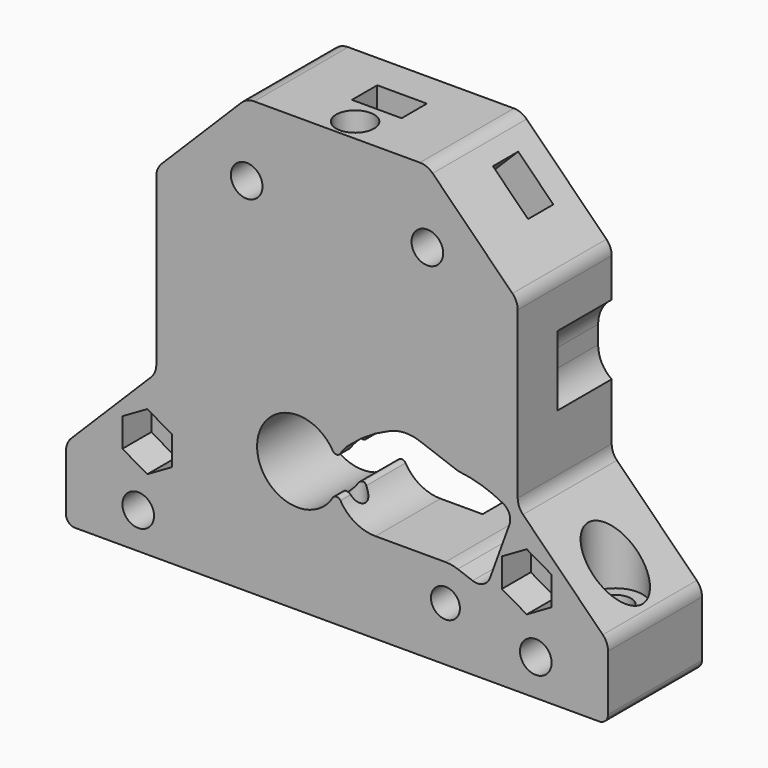
from build123d import *

# Parameters (mm, degrees)
PAD003_START         = 3
PAD003_DEPTH         = 13
SKETCH020_R          = 3.5
POCKET_DEPTH         = 6
CHAMFER_SIZE         = 1.49
POCKET010_DEPTH      = 4.001
POCKET010_DEPTH_BACK = 9.001
FILLET002_R          = 0.5
SKETCH022_R          = 5
POCKET011_DEPTH      = 7
POCKET012_DEPTH      = 5.2
POCKET016_DEPTH      = 3.5
SKETCH029_R          = 1.75
POCKET017_DEPTH      = 3.701
SKETCH030_R          = 1.75
POCKET018_DEPTH      = 2
SKETCH035_R          = 1.75
POCKET023_DEPTH      = 0.001
POCKET023_DEPTH_BACK = 16.001
POCKET024_DEPTH      = 5.001
POCKET026_DEPTH      = 3.5
SKETCH040_W          = 1.75
SKETCH040_H          = 6
SKETCH040_H_2        = 6.2
POCKET027_DEPTH      = 4.001
SKETCH041_R          = 1.75
POCKET028_DEPTH      = 8.701


with BuildPart() as part:
    # Sketch019 → Pad003 (new body)
    with BuildSketch(Plane.XZ.offset(PAD003_START)):
        with BuildLine():
            Line((-30, 1), (-30, 7.171573))
            ThreePointArc((-29.414214, 8.585786), (-29.847759, 7.93694), (-30, 7.171573))
            Line((-29.414214, 8.585786), (-20.585786, 17.414214))
            ThreePointArc((-20.585786, 17.414214), (-20.152241, 18.06306), (-20, 18.828427))
            Line((-20, 18.828427), (-20, 37.171573))
            ThreePointArc((-19.414214, 38.585786), (-19.847759, 37.93694), (-20, 37.171573))
            Line((-19.414214, 38.585786), (-10.585786, 47.414214))
            ThreePointArc((-9.171573, 48), (-9.93694, 47.847759), (-10.585786, 47.414214))
            Line((-9.171573, 48), (9.171573, 48))
            ThreePointArc((10.585786, 47.414214), (9.93694, 47.847759), (9.171573, 48))
            Line((10.585786, 47.414214), (19.414214, 38.585786))
            ThreePointArc((20, 37.171573), (19.847759, 37.93694), (19.414214, 38.585786))
            Line((20, 37.171573), (20, 18.828427))
            ThreePointArc((20, 18.828427), (20.152241, 18.06306), (20.585786, 17.414214))
            Line((20.585786, 17.414214), (29.414214, 8.585786))
            ThreePointArc((30, 7.171573), (29.847759, 7.93694), (29.414214, 8.585786))
            Line((30, 7.171573), (30, 1))
            ThreePointArc((29, 0), (29.707107, 0.292893), (30, 1))
            Line((29, 0), (-29, 0))
            ThreePointArc((-30, 1), (-29.707107, 0.292893), (-29, 0))
        make_face()
    extrude(amount=PAD003_DEPTH)

    # Sketch020 → Pocket (cut)
    with BuildSketch(Plane.XZ.offset(3)):
        with Locations((-22, 29)):
            Circle(SKETCH020_R)
        with BuildLine():
            ThreePointArc((25.5, 30), (22, 33.5), (18.5, 30))
            Line((18.5, 30), (18.5, 28))
            ThreePointArc((18.5, 28), (22, 24.5), (25.5, 28))
            Line((25.5, 30), (25.5, 28))
        make_face()
    extrude(amount=POCKET_DEPTH, mode=Mode.SUBTRACT)

    # Chamfer
    chamfer_edges = [part.edges().sort_by_distance(p)[0] for p in [
        (-20, -9, 29),
        (20, -9, 29),
    ]]
    chamfer(chamfer_edges, length=CHAMFER_SIZE)

    # Sketch018 → Groove002 (revolve, cut)
    with BuildSketch(Plane.XZ.offset(13.5)):
        Polygon((0, 48), (2.1, 48), (2.1, 25.645448), (1.15, 24), (1.15, 8), (2.1, 8), (2.1, 0), (0, 0), align=None)
    revolve(axis=Axis((0, -13.5, 0), (0, 0, 1)), mode=Mode.SUBTRACT)

    # Sketch007 → Pocket010 (cut, two sides)
    with BuildSketch(Plane.XZ.offset(7)) as pocket010_sk:
        with BuildLine():
            ThreePointArc((5.912827, 20.799773), (3.435351, 19.517904), (1.218108, 17.825301))
            ThreePointArc((1.218108, 17.825301), (0.053939, 12.874247), (4.25, 10))
            Line((4.25, 10), (12, 10))
            ThreePointArc((13.368081, 9.75877), (12.694593, 9.939231), (12, 10))
            Line((13.368081, 9.75877), (15.012543, 9.160235))
            ThreePointArc((15.012543, 9.160235), (16.1595, 9.210312), (16.935112, 10.056744))
            Line((19.079822, 15.949288), (16.935112, 10.056744))
            ThreePointArc((19.079822, 15.949288), (19.072784, 16.994288), (18.38502, 17.781088))
            ThreePointArc((18.38502, 17.781088), (15.964773, 18.80012), (13.392261, 19.32757))
            Line((13.392261, 19.32757), (9.163624, 20.866668))
            ThreePointArc((9.163624, 20.866668), (7.531972, 21.137091), (5.912827, 20.799773))
        make_face()
    extrude(amount=-POCKET010_DEPTH, mode=Mode.SUBTRACT)
    extrude(pocket010_sk.sketch, amount=POCKET010_DEPTH_BACK, mode=Mode.SUBTRACT)

    # Sketch017 → Groove003 (revolve, cut)
    with BuildSketch(Plane(origin=(12, 0, 6), x_dir=(1, 0, 0), z_dir=(0, 0, 1))):
        Polygon((0, 0), (3, 0), (3, -10), (1.6, -10), (1.6, -16), (0, -16), align=None)
    revolve(axis=Axis((12, 0, 6), (0, 1, 0)), mode=Mode.SUBTRACT)

    # Sketch021 → Groove004 (revolve, cut)
    with BuildSketch(Plane(origin=(-4.35, 0, 14.5), x_dir=(1, 0, 0), z_dir=(0, 0, 1))):
        Polygon((0, -3), (14, -3), (14, -7), (4.5, -7), (4.5, -16), (0, -16), align=None)
    revolve(axis=Axis((-4.35, 0, 14.5), (0, 1, 0)), mode=Mode.SUBTRACT)

    # Fillet002
    fillet002_edges = [part.edges().sort_by_distance(p)[0] for p in [
        (-0.05, -15.324456, 13.17335),
        (-0.05, -9.675544, 13.17335),
        (-0.05, -15.324456, 15.82665),
        (-0.05, -9.675544, 15.82665),
    ]]
    fillet(fillet002_edges, radius=FILLET002_R)

    # Sketch022 → Pocket011 (cut)
    with BuildSketch(Plane.XZ):
        with Locations((0, 29)):
            Circle(SKETCH022_R)
    extrude(amount=POCKET011_DEPTH, mode=Mode.SUBTRACT)

    # Sketch023 → Pocket012 (cut)
    with BuildSketch(Plane.XZ):
        with BuildLine():
            Line((-4.2, 46.2), (-4.2, 39.8))
            ThreePointArc((-4.2, 39.8), (-3.907107, 39.092893), (-3.2, 38.8))
            Line((-3.2, 38.8), (3.2, 38.8))
            ThreePointArc((3.2, 38.8), (3.907107, 39.092893), (4.2, 39.8))
            Line((4.2, 39.8), (4.2, 46.2))
            ThreePointArc((4.2, 46.2), (3.907107, 46.907107), (3.2, 47.2))
            Line((3.2, 47.2), (-3.2, 47.2))
            ThreePointArc((-3.2, 47.2), (-3.907107, 46.907107), (-4.2, 46.2))
        make_face()
    extrude(amount=POCKET012_DEPTH, mode=Mode.SUBTRACT)

    # Sketch028 → Pocket016 (cut)
    with BuildSketch(Plane.XZ.offset(7)):
        Polygon((2.75, 40.412287), (2.75, 43.587713), (2.75, 48), (-2.75, 48), (-2.75, 43.587713), (-2.75, 40.412287), (0, 38.824574), align=None)
    extrude(amount=POCKET016_DEPTH, mode=Mode.SUBTRACT)

    # Sketch029 → Pocket017 (cut, through all)
    with BuildSketch(Plane.XZ.offset(6.7)):
        with Locations((0, 43)):
            Circle(SKETCH029_R)
    extrude(amount=-POCKET017_DEPTH, mode=Mode.SUBTRACT)

    # Sketch030 → Pocket018 (cut)
    with BuildSketch(Plane.XZ.offset(11.5)):
        with Locations((0, 43)):
            Circle(SKETCH030_R)
    extrude(amount=-POCKET018_DEPTH, mode=Mode.SUBTRACT)

    # Sketch035 → Pocket023 (cut, two sides)
    with BuildSketch(Plane.XZ) as pocket023_sk:
        with Locations((-22, 4)):
            Circle(SKETCH035_R)
        with Locations((22, 4)):
            Circle(SKETCH035_R)
    extrude(amount=-POCKET023_DEPTH, mode=Mode.SUBTRACT)
    extrude(pocket023_sk.sketch, amount=POCKET023_DEPTH_BACK, mode=Mode.SUBTRACT)

    # Sketch036 → Pocket024 (cut, through all)
    with BuildSketch(Plane.XZ.offset(8)):
        Polygon((-19.25, 2.412287), (-19.25, 5.587713), (-22, 7.175426), (-24.75, 5.587713), (-24.75, 2.412287), (-22, 0.824574), align=None)
        Polygon((24.75, 2.412287), (24.75, 5.587713), (22, 7.175426), (19.25, 5.587713), (19.25, 2.412287), (22, 0.824574), align=None)
    extrude(amount=-POCKET024_DEPTH, mode=Mode.SUBTRACT)

    # Sketch037 → Groove006 (revolve, cut)
    with BuildSketch(Plane(origin=(26, -10, 0), x_dir=(1, 0, 0), z_dir=(0, -1, 0))):
        Polygon((0, 0), (1.75, 0), (1.75, 8), (3, 8), (3, 20), (0, 20), align=None)
    groove006 = revolve(axis=Axis((26, -10, 0), (0, 0, 1)), mode=Mode.SUBTRACT)

    # Mirrored001: Groove006 across YZ
    add(groove006.mirror(Plane.YZ), mode=Mode.SUBTRACT)

    # Sketch039 → Pocket026 (cut)
    with BuildSketch(Plane.XZ.offset(6)):
        Polygon((9.178139, 43.067226), (6.932774, 40.821861), (7.754634, 37.754634), (10.821861, 36.932774), (13.067226, 39.178139), (15.944544, 42.055456), (12.055456, 45.944544), align=None)
    pocket026 = extrude(amount=POCKET026_DEPTH, mode=Mode.SUBTRACT)

    # Sketch040 → Groove009 (revolve, cut)
    with BuildSketch(Plane(origin=(10, 0, 40), x_dir=(1, 0, 0), z_dir=(0, 0, 1))):
        with Locations((0.875, -3)):
            Rectangle(SKETCH040_W, SKETCH040_H)
        with Locations((0.875, -12.9)):
            Rectangle(SKETCH040_W, SKETCH040_H_2)
    groove009 = revolve(axis=Axis((10, 0, 40), (0, 1, 0)), mode=Mode.SUBTRACT)

    # Mirrored004: Pocket026, Groove009 across YZ
    add(pocket026.mirror(Plane.YZ), mode=Mode.SUBTRACT)
    add(groove009.mirror(Plane.YZ), mode=Mode.SUBTRACT)

    # Sketch031 → Pocket027 (cut, through all)
    with BuildSketch(Plane.XZ.offset(12)):
        Polygon((-21, 7.824574), (-18.25, 9.412287), (-18.25, 12.587713), (-21, 14.175426), (-23.75, 12.587713), (-23.75, 9.412287), align=None)
        Polygon((23.75, 9.412287), (23.75, 12.587713), (21, 14.175426), (18.25, 12.587713), (18.25, 9.412287), (21, 7.824574), align=None)
    extrude(amount=POCKET027_DEPTH, mode=Mode.SUBTRACT)

    # Sketch041 → Pocket028 (cut, through all)
    with BuildSketch(Plane.XZ.offset(11.7)):
        with Locations((21, 11)):
            Circle(SKETCH041_R)
        with Locations((-21, 11)):
            Circle(SKETCH041_R)
    extrude(amount=-POCKET028_DEPTH, mode=Mode.SUBTRACT)


solid = part.part
